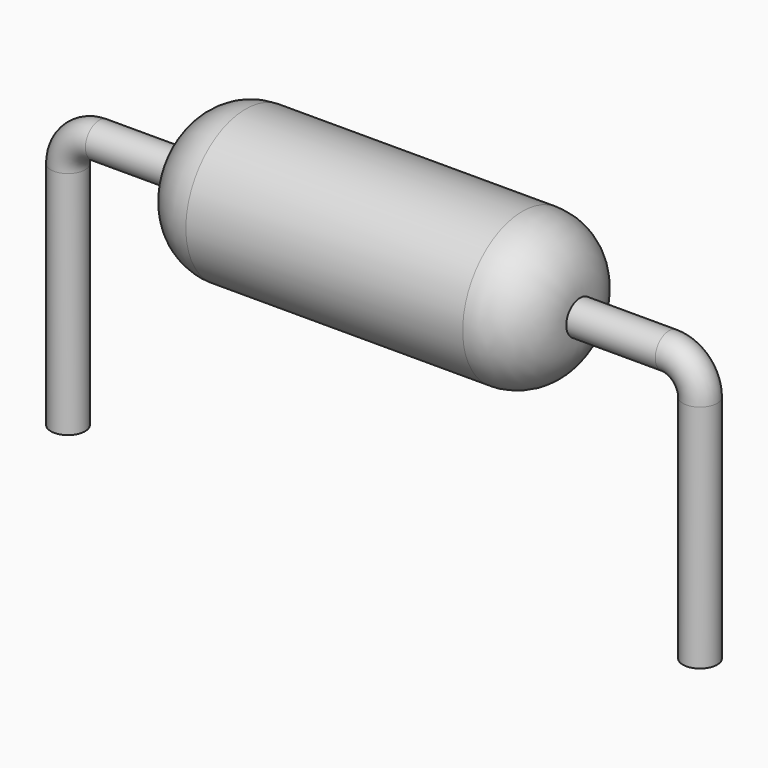
from build123d import *

# Parameters (mm, degrees)
F0_R     = 1.2
F1_DEPTH = 3.15
F2_R     = 0.925
F3_R     = 0.275


with BuildPart() as f1:
    # F0 (on Right) → F1 (new body)
    with BuildSketch(Plane.YZ):
        Circle(F0_R)
    extrude(amount=F1_DEPTH)

    # F2
    f2_edges = [f1.edges().sort_by_distance(p)[0] for p in [
        (3.15, -1.2, 0),
    ]]
    fillet(f2_edges, radius=F2_R)

    # F5: sweep along a path in F4
    with BuildLine(Plane.XZ) as f5_path:
        Line((3.15, 0), (4.58, 0))
        ThreePointArc((4.58, 0), (4.933553, -0.146447), (5.08, -0.5))
        Line((5.08, -0.5), (5.08, -4.2))
    # F3 (on face) → F5 (sweep)
    with BuildSketch(Plane.YZ.offset(3.15)):
        Circle(F3_R)
    sweep(path=f5_path.line)

    # F6: F1 across face


with BuildPart() as f1_1:
    add(f1.part)
    add(f1.part.mirror(Plane(origin=(0, 0, 0), x_dir=(0, 1, 0), z_dir=(-1, 0, 0))))


solid = f1_1.part
